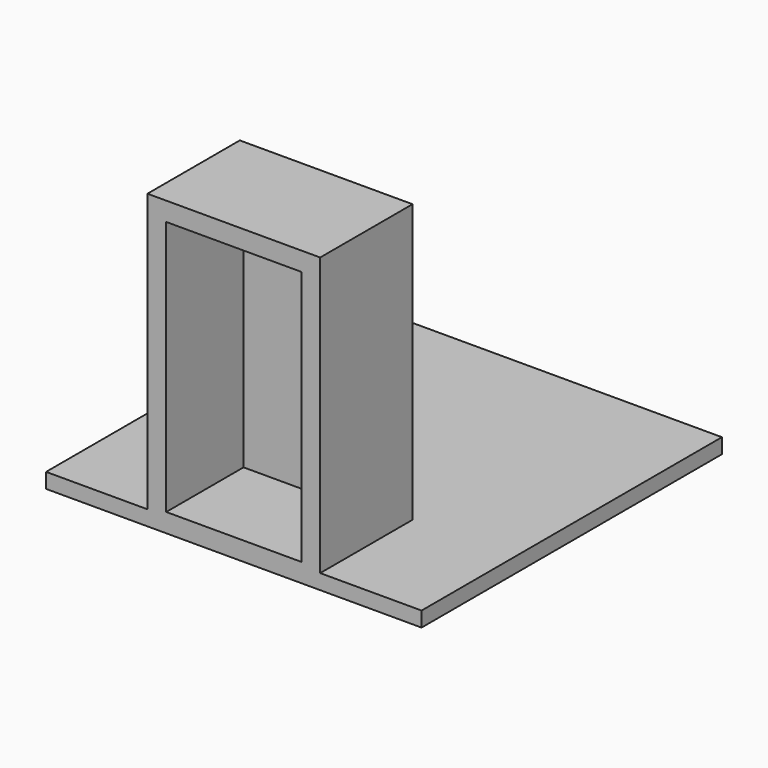
from build123d import *

# Parameters (mm, degrees)
F0_W     = 23
F0_H     = 15.370602
F1_DEPTH = 39
F2_DEPTH = 2
F3_T     = -2.5


with BuildPart() as f1:
    # F0 (on Top) → F1 (new body)
    with BuildSketch(Plane.XY):
        with Locations((0, -17.314699)):
            Rectangle(F0_W, F0_H)
    extrude(amount=F1_DEPTH)

    # F0 (on Top) → F2 (join)
    with BuildSketch(Plane.XY):
        Polygon((25, 25), (-25, 25), (-25, -25), (-11.5, -25), (-11.5, -9.629398), (11.5, -9.629398), (11.5, -25), (25, -25), align=None)
    extrude(amount=F2_DEPTH)

    # F3
    f3_openings = [f1.faces().sort_by_distance(p)[0] for p in [
        (0, -25, 18.449527),
    ]]
    offset(amount=F3_T, openings=f3_openings)


solid = f1.part
